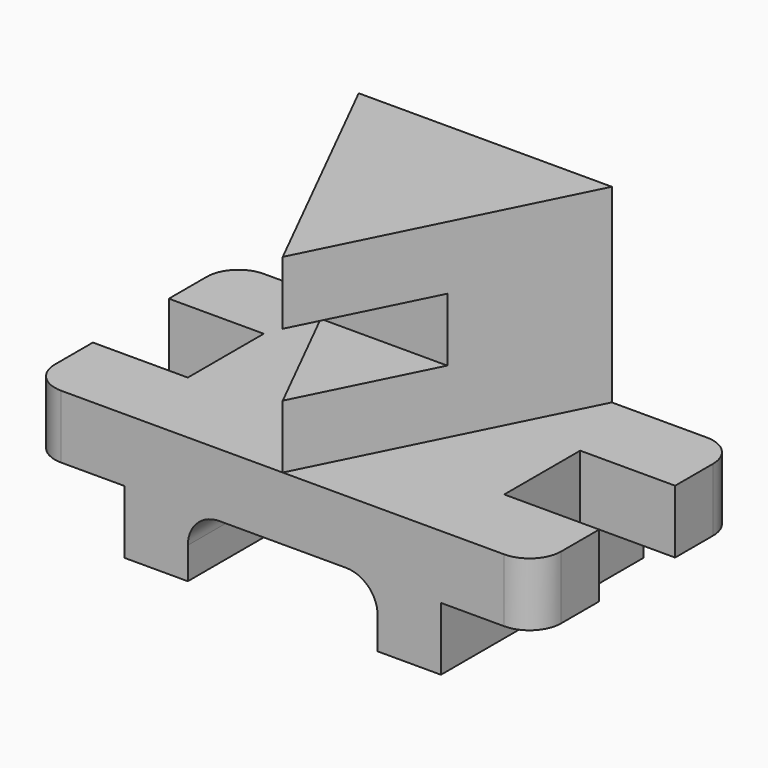
from build123d import *

# Parameters (mm, degrees)
F1_DEPTH = 25.4
F2_R     = 12.7
F4_DEPTH = 101.6
F6_DEPTH = 76.2
F7_W     = 50.8
F7_H     = 25.400006
F8_DEPTH = 203.201


with BuildPart() as f1:
    # F0 (on Top) → F1 (new body)
    with BuildSketch(Plane.XY):
        Polygon((0, 31.75), (0, 0), (203.2, 0), (203.2, 31.75), (165.1, 31.75), (165.1, 69.85), (203.2, 69.85), (203.2, 101.6), (0, 101.6), (0, 69.85), (38.1, 69.85), (38.1, 31.75), align=None)
    extrude(amount=F1_DEPTH)

    # F2
    f2_edges = [f1.edges().sort_by_distance(p)[0] for p in [
        (203.2, 0, 12.7),
        (203.2, 101.6, 12.7),
        (0, 0, 12.7),
        (0, 101.6, 12.7),
    ]]
    fillet(f2_edges, radius=F2_R)

    # F3 (on Front) → F4 (join)
    with BuildSketch(Plane.XZ):
        with BuildLine():
            Line((76.2, 0), (38.1, 0))
            Line((38.1, 0), (38.1, -25.4))
            Line((38.1, -25.4), (63.5, -25.4))
            Line((63.5, -25.4), (63.5, -12.7))
            ThreePointArc((63.5, -12.7), (67.219744, -3.719744), (76.2, 0))
        make_face()
        with BuildLine():
            Line((139.7, -12.7), (139.7, -25.4))
            Line((139.7, -25.4), (165.1, -25.4))
            Line((165.1, -25.4), (165.1, 0))
            Line((165.1, 0), (127, 0))
            ThreePointArc((127, 0), (135.980256, -3.719744), (139.7, -12.7))
        make_face()
    extrude(amount=-F4_DEPTH)

    # F5 (on face) → F6 (join)
    with BuildSketch(Plane.XY.offset(25.4)):
        Polygon((101.6, 0), (152.4, 101.6), (50.8, 101.6), align=None)
    extrude(amount=F6_DEPTH)

    # F7 (on Right) → F8 (cut, through all)
    with BuildSketch(Plane.YZ):
        with Locations((25.4, 63.499997)):
            Rectangle(F7_W, F7_H)
    extrude(amount=F8_DEPTH, mode=Mode.SUBTRACT)


solid = f1.part
